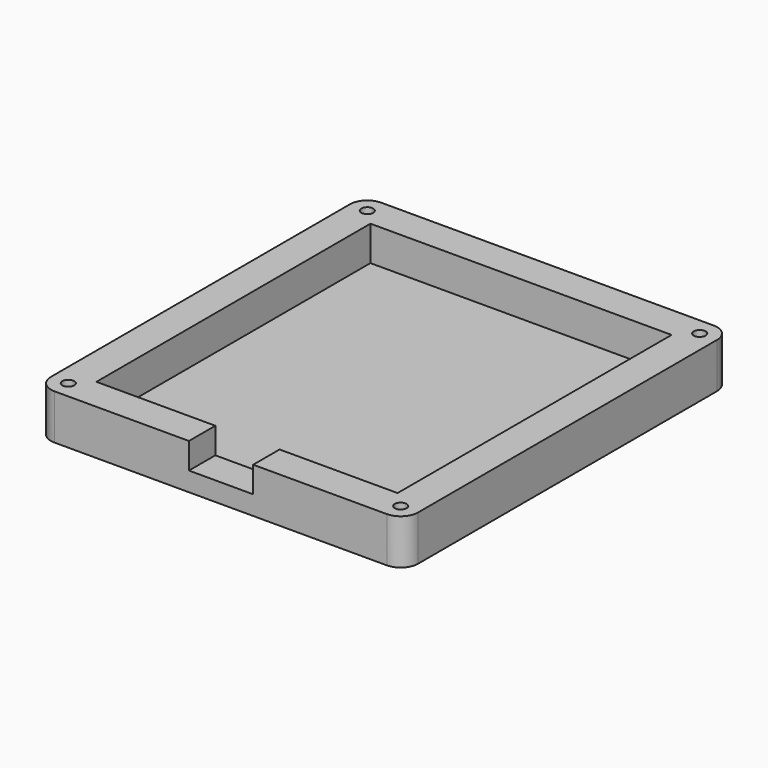
from build123d import *

# Parameters (mm, degrees)
SKETCH_R        = 1.7
PAD_DEPTH       = 13
SKETCH001_W     = 86.725
SKETCH001_H     = 98.631
POCKET_DEPTH    = 10
SKETCH002_W     = 18.5
SKETCH002_H     = 7.5
POCKET001_DEPTH = 11
SKETCH003_R     = 3
POCKET002_DEPTH = 3.1


with BuildPart() as part:
    # Sketch → Pad (new body)
    with BuildSketch(Plane.XY):
        with BuildLine():
            Line((-5, 0), (-5, -107.631))
            ThreePointArc((-5, -107.631), (-3.535534, -111.166534), (0, -112.631))
            Line((0, -112.631), (95.725, -112.631))
            ThreePointArc((95.725, -112.631), (99.260534, -111.166534), (100.725, -107.631))
            Line((100.725, -107.631), (100.725, 0))
            ThreePointArc((100.725, 0), (99.260534, 3.535534), (95.725, 5))
            Line((95.725, 5), (0, 5))
            ThreePointArc((0, 5), (-3.535534, 3.535534), (-5, 0))
        make_face()
        Circle(SKETCH_R, mode=Mode.SUBTRACT)
        with Locations((95.725, 0)):
            Circle(SKETCH_R, mode=Mode.SUBTRACT)
        with Locations((95.725, -107.631)):
            Circle(SKETCH_R, mode=Mode.SUBTRACT)
        with Locations((0, -107.631)):
            Circle(SKETCH_R, mode=Mode.SUBTRACT)
    extrude(amount=PAD_DEPTH)

    # Sketch001 (on Face14 of Pad) → Pocket (cut)
    with BuildSketch(Plane.XY.offset(13)):
        with Locations((47.8625, -53.8155)):
            Rectangle(SKETCH001_W, SKETCH001_H)
    extrude(amount=-POCKET_DEPTH, mode=Mode.SUBTRACT)

    # Sketch002 (on Face7 of Pocket) → Pocket001 (cut)
    with BuildSketch(Plane.XZ.offset(112.631)):
        with Locations((47.992, 9.25)):
            Rectangle(SKETCH002_W, SKETCH002_H)
    extrude(amount=-POCKET001_DEPTH, mode=Mode.SUBTRACT)

    # Sketch003 (on Face4 of Pocket001) → Pocket002 (cut)
    with BuildSketch(Plane(origin=(0, 0, 0), x_dir=(1, 0, 0), z_dir=(0, 0, -1))):
        with Locations((0, 107.631)):
            Circle(SKETCH003_R)
        with Locations((95.725, 107.631)):
            Circle(SKETCH003_R)
        with Locations((95.725, 0)):
            Circle(SKETCH003_R)
        Circle(SKETCH003_R)
    extrude(amount=-POCKET002_DEPTH, mode=Mode.SUBTRACT)


solid = part.part
